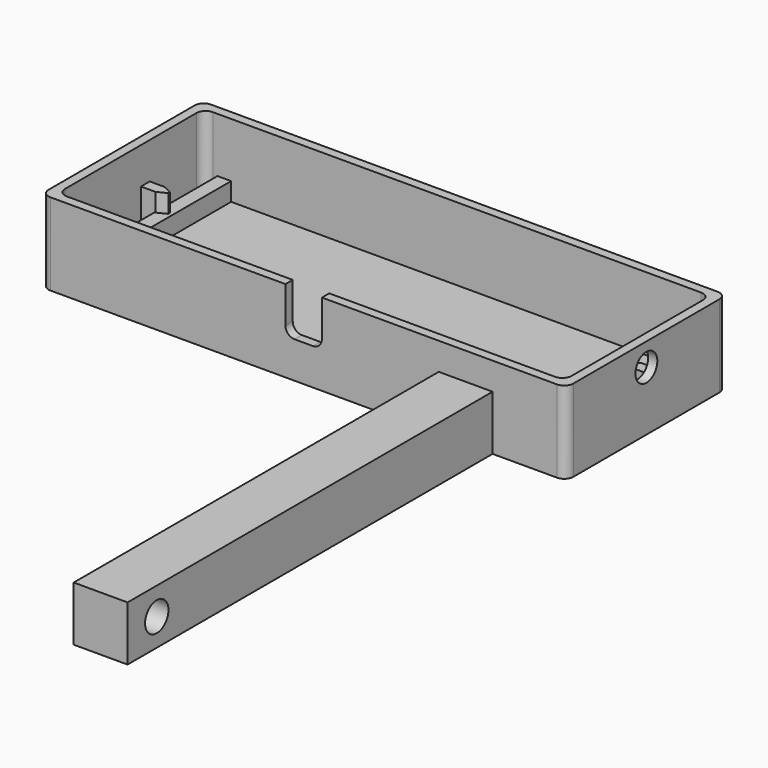
from build123d import *

# Parameters (mm, degrees)
F0_W        = 57.5
F0_H        = 22
F0_W_2      = 55.5
F0_H_2      = 20
F1_DEPTH    = 9
F2_W        = 57.5
F2_H        = 22
F3_DEPTH    = 1
F5_DEPTH    = 1
F6_W        = 5.9
F6_H        = 6
F7_DEPTH    = 50
F8_R        = 1.6
F9_DEPTH    = 5.9
F10_W       = 1.5
F10_H       = 20
F11_DEPTH   = 2
F12_R       = 1
F13_R       = 1
F14_R       = 1.5
F15_DEPTH   = 1
F16_W       = 2.6
F16_H       = 1.2
F17_DEPTH   = 4
F18_SIZE2   = 0.5
F18_SIZE    = 1
F18_2_SIZE2 = 0.5
F18_2_SIZE  = 1
F19_SIZE2   = 1
F19_SIZE    = 0.5


with BuildPart() as f1:
    # F0 (on Top) → F1 (new body)
    with BuildSketch(Plane.XY):
        Rectangle(F0_W, F0_H)
        Rectangle(F0_W_2, F0_H_2, mode=Mode.SUBTRACT)
    extrude(amount=F1_DEPTH)

    # F2 (on Top) → F3 (join)
    with BuildSketch(Plane.XY):
        Rectangle(F2_W, F2_H)
    extrude(amount=F3_DEPTH)

    # F4 (on face) → F5 (cut, through all)
    with BuildSketch(Plane.XZ.offset(11)):
        with BuildLine():
            Line((2, 9), (-2, 9))
            Line((-2, 9), (-2, 5))
            ThreePointArc((-2, 5), (-1.7071067812, 4.2928932188), (-1, 4))
            Line((-1, 4), (1, 4))
            ThreePointArc((1, 4), (1.7071067812, 4.2928932188), (2, 5))
            Line((2, 5), (2, 9))
        make_face()
    extrude(amount=-F5_DEPTH, mode=Mode.SUBTRACT)

    # F6 (on face) → F7 (join)
    with BuildSketch(Plane.XZ.offset(11)):
        with Locations((17.75, 3)):
            Rectangle(F6_W, F6_H)
    extrude(amount=F7_DEPTH)

    # F8 (on face) → F9 (cut, through all)
    with BuildSketch(Plane.YZ.offset(20.7)):
        with Locations((-57, 3)):
            Circle(F8_R)
    extrude(amount=-F9_DEPTH, mode=Mode.SUBTRACT)

    # F10 (on face) → F11 (join)
    with BuildSketch(Plane.XY.offset(1)):
        with Locations((-25.5, 0)):
            Rectangle(F10_W, F10_H)
        with Locations((25.5, 0)):
            Rectangle(F10_W, F10_H)
    extrude(amount=F11_DEPTH)

    # F12
    f12_edges = [f1.edges().sort_by_distance(p)[0] for p in [
        (-28.75, -11, 4.5),
        (28.75, -11, 4.5),
        (28.75, 11, 4.5),
        (-28.75, 11, 4.5),
    ]]
    fillet(f12_edges, radius=F12_R)

    # F13
    f13_edges = [f1.edges().sort_by_distance(p)[0] for p in [
        (-27.75, 10, 5),
        (27.75, 10, 5),
        (27.75, -10, 5),
        (-27.75, -10, 5),
    ]]
    fillet(f13_edges, radius=F13_R)

    # F14 (on face) → F15 (cut, through all)
    with BuildSketch(Plane.YZ.offset(28.75)):
        with Locations((0, 6.5)):
            Circle(F14_R)
    extrude(amount=-F15_DEPTH, mode=Mode.SUBTRACT)

    # F16 (on face) → F17 (join)
    with BuildSketch(Plane.XY.offset(1)):
        with Locations((26.45, 2)):
            Rectangle(F16_W, F16_H)
        with Locations((-26.45, 2)):
            Rectangle(F16_W, F16_H)
    extrude(amount=F17_DEPTH)

    # F18
    f18_edges = [f1.edges().sort_by_distance(p)[0] for p in [
        (-25.15, 2.6, 4),
    ]]
    f18_side = f1.faces().sort_by_distance((-26.65122, 2.6, 3.268293))[0]
    chamfer(f18_edges, length=F18_SIZE, length2=F18_SIZE2, reference=f18_side)

    # F18#2
    f18_2_edges = [f1.edges().sort_by_distance(p)[0] for p in [
        (-25.15, 1.4, 4),
    ]]
    f18_2_side = f1.faces().sort_by_distance((-26.65122, 1.4, 3.268293))[0]
    chamfer(f18_2_edges, length=F18_2_SIZE, length2=F18_2_SIZE2, reference=f18_2_side)

    # F19
    f19_edges = [f1.edges().sort_by_distance(p)[0] for p in [
        (25.15, 2.6, 4),
        (25.15, 1.4, 4),
    ]]
    f19_side = f1.faces().sort_by_distance((25.15, 2, 4))[0]
    chamfer(f19_edges, length=F19_SIZE, length2=F19_SIZE2, reference=f19_side)


solid = f1.part
